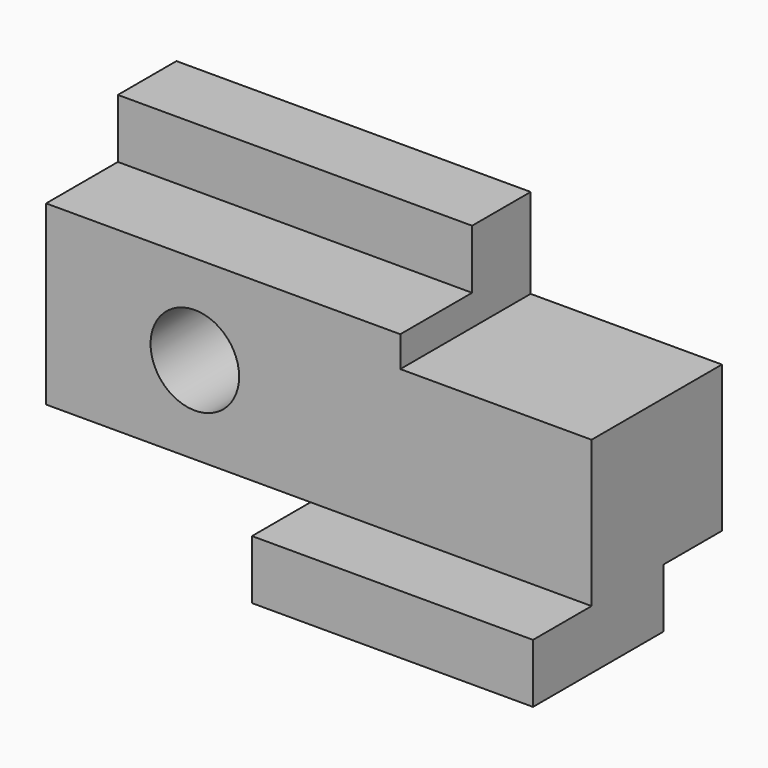
from build123d import *

# Parameters (mm, degrees)
F0_W      = 117.348
F0_H      = 63.5
F1_DEPTH  = 50.8
F2_W      = 41.148
F2_H      = 19.304
F3_DEPTH  = 50.801
F4_W      = 56.896
F4_H      = 12.7
F5_DEPTH  = 50.801
F6_R      = 9.525
F7_DEPTH  = 50.801
F8_W      = 15.748
F8_H      = 12.7
F9_DEPTH  = 117.349
F10_W     = 35.052
F10_H     = 12.7
F11_DEPTH = 76.201
F12_W     = 15.748
F12_H     = 38.1
F13_DEPTH = 76.201
F14_W     = 15.748
F14_H     = 31.496
F15_DEPTH = 117.349


with BuildPart() as f1:
    # F0 (on Front) → F1 (new body)
    with BuildSketch(Plane.XZ):
        Rectangle(F0_W, F0_H)
    extrude(amount=F1_DEPTH)

    # F2 (on face) → F3 (cut, through all)
    with BuildSketch(Plane.XZ.offset(50.8)):
        with Locations((38.1, 22.098)):
            Rectangle(F2_W, F2_H)
    extrude(amount=-F3_DEPTH, mode=Mode.SUBTRACT)

    # F4 (on face) → F5 (cut, through all)
    with BuildSketch(Plane.XZ.offset(50.8)):
        with Locations((-30.226, -25.4)):
            Rectangle(F4_W, F4_H)
    extrude(amount=-F5_DEPTH, mode=Mode.SUBTRACT)

    # F6 (on face) → F7 (cut, through all)
    with BuildSketch(Plane.XZ.offset(50.8)):
        with Locations((-26.67, -0.254)):
            Circle(F6_R)
    extrude(amount=-F7_DEPTH, mode=Mode.SUBTRACT)

    # F8 (on face) → F9 (cut, through all)
    with BuildSketch(Plane.YZ.offset(58.674)):
        with Locations((-7.874, -25.4)):
            Rectangle(F8_W, F8_H)
    extrude(amount=-F9_DEPTH, mode=Mode.SUBTRACT)

    # F10 (on face) → F11 (cut, through all)
    with BuildSketch(Plane.YZ.offset(17.526)):
        with Locations((-33.274, 25.4)):
            Rectangle(F10_W, F10_H)
    extrude(amount=-F11_DEPTH, mode=Mode.SUBTRACT)

    # F12 (on face) → F13 (cut, through all)
    with BuildSketch(Plane.YZ.offset(17.526)):
        with Locations((-42.926, 0)):
            Rectangle(F12_W, F12_H)
    extrude(amount=-F13_DEPTH, mode=Mode.SUBTRACT)

    # F14 (on face) → F15 (cut, through all)
    with BuildSketch(Plane.YZ.offset(58.674)):
        with Locations((-42.926, -3.302)):
            Rectangle(F14_W, F14_H)
    extrude(amount=-F15_DEPTH, mode=Mode.SUBTRACT)


solid = f1.part
